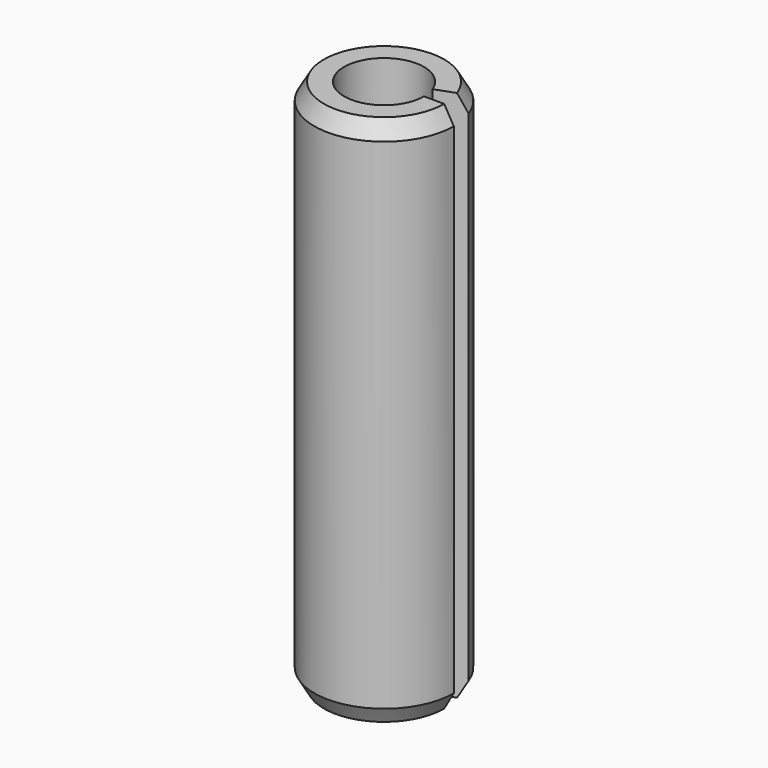
from build123d import *

# Parameters (mm, degrees)
F0_W     = 0.7112
F0_H     = 12.7
F2_ANGLE = 340
F3_SIZE2 = 0.2286
F3_SIZE  = 0.3959468146


with BuildPart() as f2:
    # F0 (on Front) → F2 (revolve)
    with BuildSketch(Plane.XZ):
        with Locations((1.3081, -6.35)):
            Rectangle(F0_W, F0_H)
    revolve(axis=Axis((0, 0, -8.318349719), (0, 0, -1)), revolution_arc=F2_ANGLE)

    # F3
    f3_edges = [f2.edges().sort_by_distance(p)[0] for p in [
        (-1.638425, -0.288898, 0),
        (-1.638425, -0.288898, -12.7),
    ]]
    f3_side = f2.faces().sort_by_distance((-1.638425, -0.288898, -6.35))[0]
    chamfer(f3_edges, length=F3_SIZE, length2=F3_SIZE2, reference=f3_side)


solid = f2.part
